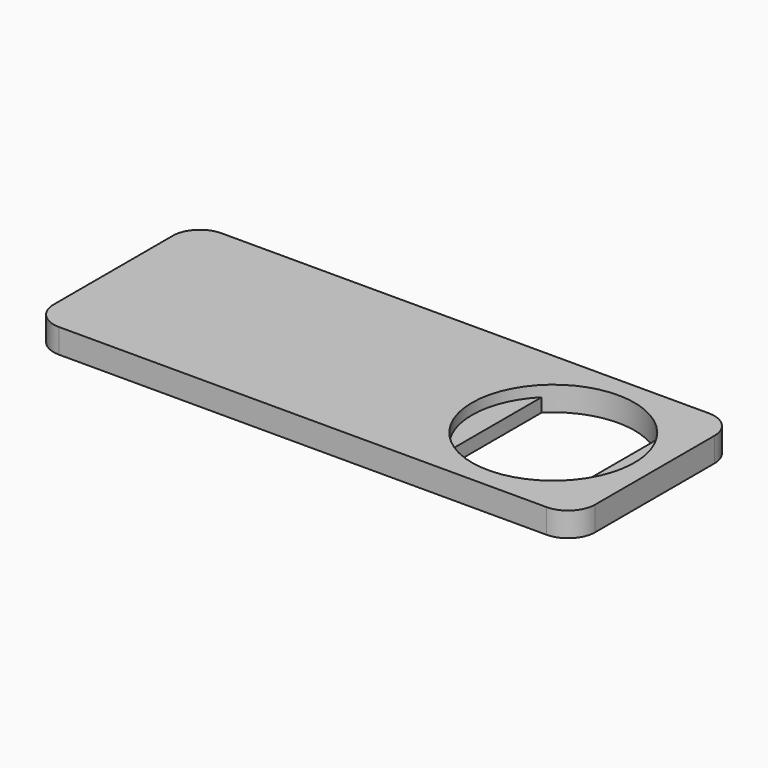
from build123d import *

# Parameters (mm, degrees)
F0_W     = 101.6
F0_H     = 4.572
F1_DEPTH = 38.1
F2_R     = 5.08
F4_D     = 30.48
F6_START = -2.032
F6_DEPTH = 2.54


with BuildPart() as f1:
    # F0 (on Front) → F1 (new body)
    with BuildSketch(Plane.XZ):
        with Locations((-24.6199596018, -14.7750445657)):
            Rectangle(F0_W, F0_H)
    extrude(amount=F1_DEPTH)

    # F2
    f2_edges = [f1.edges().sort_by_distance(p)[0] for p in [
        (26.18004, -38.1, -14.775045),
        (26.18004, 0, -14.775045),
        (-75.41996, -38.1, -14.775045),
        (-75.41996, 0, -14.775045),
    ]]
    fillet(f2_edges, radius=F2_R)

    # F4 (through all)
    with Locations(Plane.XY.offset(-12.4890445657)):
        with Locations((7.1300403982, -19.05)):
            Hole(F4_D / 2)

    # F5 (on face) → F6 (join)
    with BuildSketch(Plane.XY.offset(-12.4890445657).offset(F6_START)):
        with BuildLine():
            ThreePointArc((22.3700403982, -19.05), (21.2159885399, -13.2324691706), (17.9286145516, -8.2960055675))
            Line((17.9286145516, -8.2960055675), (17.9286145516, -29.8039944325))
            ThreePointArc((17.9286145516, -29.8039944325), (21.2159885399, -24.8675308294), (22.3700403982, -19.05))
        make_face()
        with BuildLine():
            Line((-3.6613854484, -29.8111676038), (-3.6613854484, -8.2888323962))
            ThreePointArc((-3.6613854484, -8.2888323962), (-8.1099596018, -19.05), (-3.6613854484, -29.8111676038))
        make_face()
    extrude(amount=-F6_DEPTH)


solid = f1.part
